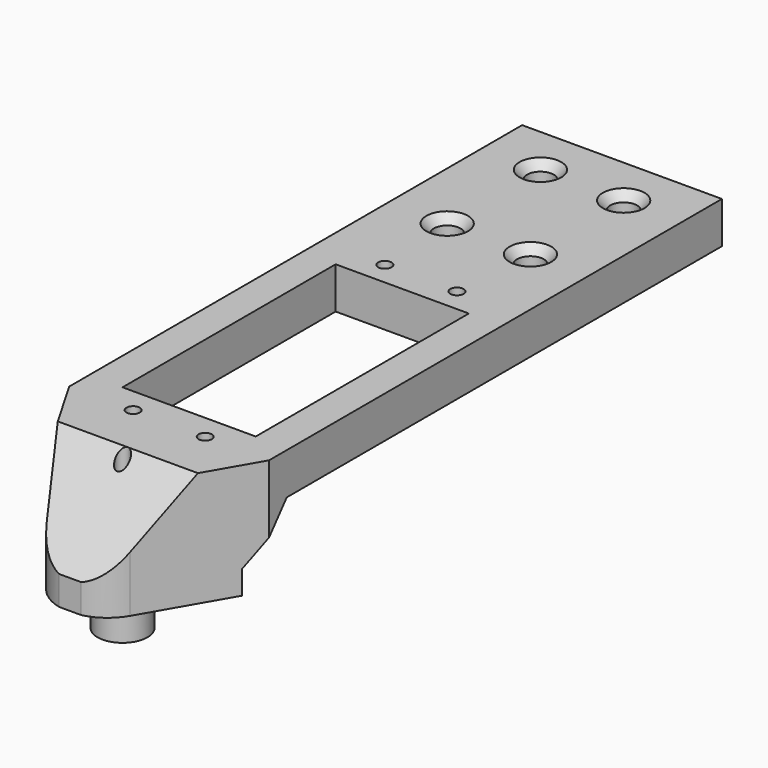
from build123d import *

# Parameters (mm, degrees)
F0_W           = 20.32
F0_H           = 40.64
F0_R           = 1.016
F0_W_2         = 15.24
F0_H_2         = 31.75
F2_DEPTH       = 17.526
F1_W           = 43.174938
F1_H           = 6.35
F3_DEPTH       = 127
F4_R           = 3.81
F5_DEPTH       = 6.35
F7_D           = 2.032
F7_CSINK_D     = 3.175
F7_CSINK_ANGLE = 82
F8_D           = 4.064
F8_CSINK_D     = 6.35
F8_CSINK_ANGLE = 82


with BuildPart() as f2:
    # F0 (on Top) → F2 (new body, through all)
    with BuildSketch(Plane.XY):
        with BuildLine():
            Line((6.35, -29.367932), (15.24, -13.97))
            Line((15.24, -13.97), (6.5151, -13.97))
            ThreePointArc((6.5151, -13.97), (5.4991, -14.986), (4.4831, -13.97))
            Line((4.4831, -13.97), (-4.4831, -13.97))
            ThreePointArc((-4.4831, -13.97), (-5.4991, -14.986), (-6.5151, -13.97))
            Line((-6.5151, -13.97), (-15.24, -13.97))
            Line((-15.24, -13.97), (-6.35, -29.367932))
            ThreePointArc((-6.35, -29.367932), (0, -33.034106), (6.35, -29.367932))
        make_face()
        with BuildLine():
            Line((6.5151, -13.97), (15.24, -13.97))
            Line((15.24, -13.97), (15.24, 40.64))
            Line((15.24, 40.64), (0, 40.64))
            Line((0, 40.64), (-15.24, 40.64))
            Line((-15.24, 40.64), (-15.24, -13.97))
            Line((-15.24, -13.97), (-6.5151, -13.97))
            ThreePointArc((-6.5151, -13.97), (-5.4991, -12.954), (-4.4831, -13.97))
            Line((-4.4831, -13.97), (4.4831, -13.97))
            ThreePointArc((4.4831, -13.97), (5.4991, -12.954), (6.5151, -13.97))
        make_face()
        with Locations((0, 10.16)):
            Rectangle(F0_W, F0_H, mode=Mode.SUBTRACT)
        with Locations((-5.4991, 34.036)):
            Circle(F0_R, mode=Mode.SUBTRACT)
        with Locations((5.4991, 34.036)):
            Circle(F0_R, mode=Mode.SUBTRACT)
        with Locations((7.62, 56.515)):
            Rectangle(F0_W_2, F0_H_2)
        with Locations((-7.62, 56.515)):
            Rectangle(F0_W_2, F0_H_2)
    extrude(amount=-F2_DEPTH)

    # F1 (on Right) → F3 (intersect, symmetric)
    with BuildSketch(Plane.YZ):
        Polygon((40.64, -6.35), (40.64, 0), (-21.845814, 0), (-32.838694, -13.100805), (-32.838694, -13.97), (-32.838694, -17.526), (-16.989363, -17.526), (-16.989363, -13.97), (-10.595424, -6.35), align=None)
        with Locations((62.227469, -3.175)):
            Rectangle(F1_W, F1_H)
    extrude(amount=F3_DEPTH, both=True, mode=Mode.INTERSECT)

    # F4 (on face) → F5 (join)
    with BuildSketch(Plane(origin=(0, 0, -17.526), x_dir=(1, 0, 0), z_dir=(0, 0, -1))):
        with Locations((0, 22.86)):
            Circle(F4_R)
    extrude(amount=F5_DEPTH)

    # F7 (through all)
    with Locations(Plane(origin=(0, 0, -23.876), x_dir=(1, 0, 0), z_dir=(0, 0, -1))):
        with Locations((0, 22.86)):
            CounterSinkHole(F7_D / 2, F7_CSINK_D / 2, counter_sink_angle=F7_CSINK_ANGLE)

    # F8 (through all)
    with Locations(Plane.XY):
        with Locations((6.35, 46.99), (-6.35, 46.99), (-6.35, 64.77), (6.35, 64.77)):
            CounterSinkHole(F8_D / 2, F8_CSINK_D / 2, counter_sink_angle=F8_CSINK_ANGLE)


solid = f2.part
